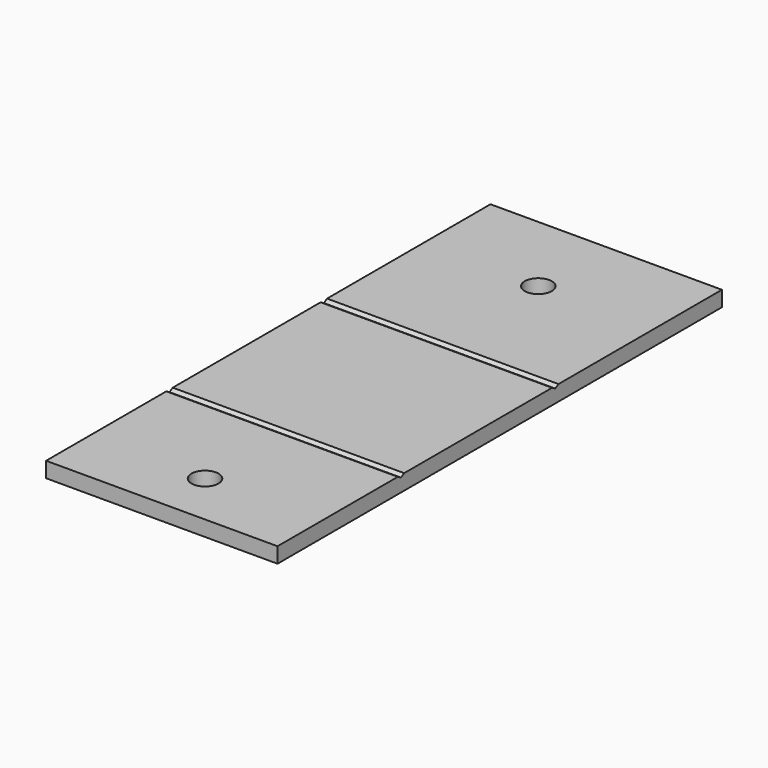
from build123d import *

# Parameters (mm, degrees)
F0_W     = 30
F0_H     = 27
F0_R     = 1.75
F0_H_2   = 25
F0_H_3   = 20
F1_DEPTH = 2
F3_DEPTH = 30.001


with BuildPart() as f1:
    # F0 (on Top) → F1 (new body)
    with BuildSketch(Plane.XY):
        with Locations((15, 58.5)):
            Rectangle(F0_W, F0_H)
        with Locations((15, 61)):
            Circle(F0_R, mode=Mode.SUBTRACT)
        with Locations((15, 32.5)):
            Rectangle(F0_W, F0_H_2)
        with Locations((15, 10)):
            Rectangle(F0_W, F0_H_3)
        with Locations((15, 7)):
            Circle(F0_R, mode=Mode.SUBTRACT)
    extrude(amount=F1_DEPTH)

    # F2 (on face) → F3 (cut, through all)
    with BuildSketch(Plane(origin=(0, 0, 0), x_dir=(0, -1, 0), z_dir=(-1, 0, 0))):
        Polygon((-20, 1.7), (-19.480385, 2), (-20.519615, 2), align=None)
        Polygon((-44.480385, 2), (-45.519615, 2), (-45, 1.7), align=None)
    extrude(amount=-F3_DEPTH, mode=Mode.SUBTRACT)


solid = f1.part
